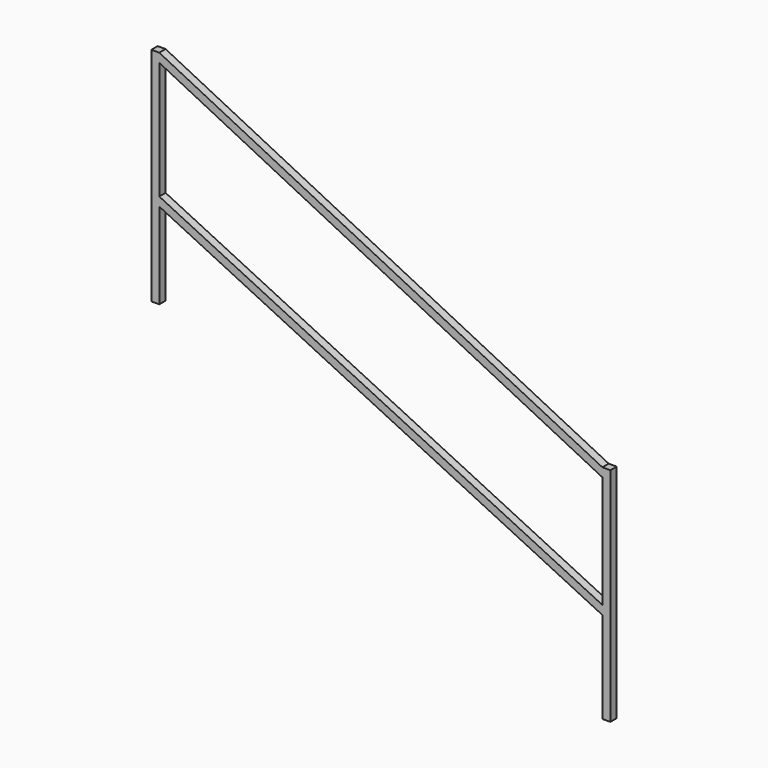
from build123d import *

# Parameters (mm, degrees)
F1_DEPTH = 38.1


with BuildPart() as f1:
    # F0 (on Front) → F1 (new body)
    with BuildSketch(Plane.XZ):
        Polygon((1134.815211, 0), (1096.715211, 0), (1096.715211, -42.5704), (1096.715211, -583.770843), (1096.715211, -626.341243), (1096.715211, -1066.8), (1134.815211, -1066.8), align=None)
        Polygon((1096.715211, -42.5704), (1096.715211, 0), (-1036.884789, 1063.665581), (-1036.884789, 1021.093488), align=None)
        Polygon((-1036.884789, 1021.093488), (-1036.884789, 1063.665581), (-1074.984789, 1063.665581), (-1074.984789, -3.134419), (-1036.884789, -3.134419), (-1036.884789, 411.495181), (-1036.884789, 454.065581), align=None)
        Polygon((1096.715211, -626.341243), (1096.715211, -583.770843), (-1036.884789, 454.065581), (-1036.884789, 411.495181), align=None)
    extrude(amount=F1_DEPTH)


solid = f1.part
